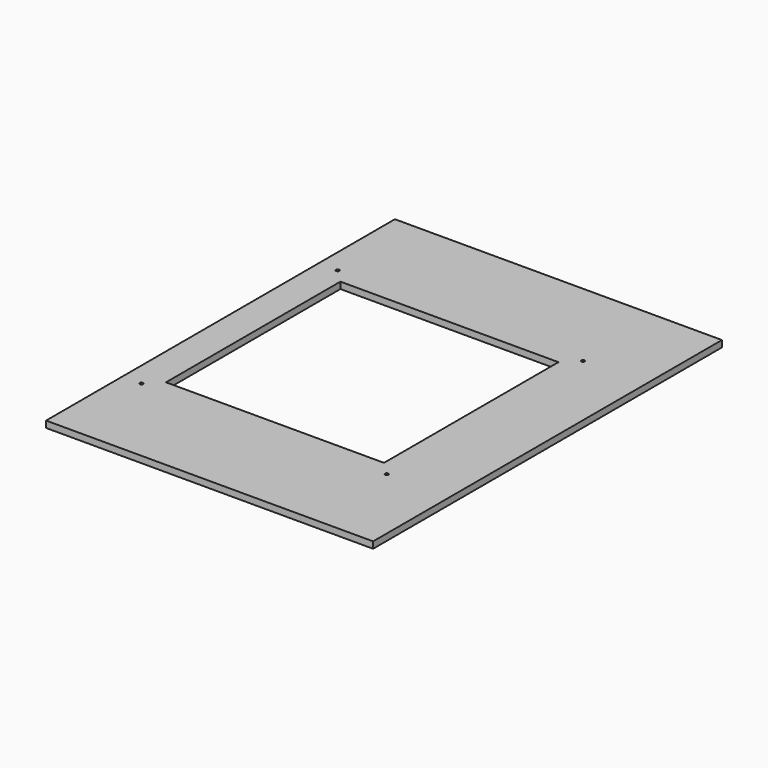
from build123d import *

# Parameters (mm, degrees)
F0_W     = 600
F0_H     = 800
F1_DEPTH = 12
F2_W     = 400
F2_H     = 400
F3_DEPTH = 15
F5_R     = 3.1
F6_DEPTH = 50


with BuildPart() as f1:
    # F0 (on Top) → F1 (new body)
    with BuildSketch(Plane.XY):
        with Locations((73.317543, -274.941781)):
            Rectangle(F0_W, F0_H)
    extrude(amount=F1_DEPTH)

    # F2 (on face) → F3 (cut)
    with BuildSketch(Plane.XY.offset(12)):
        with Locations((33.317543, -274.941781)):
            Rectangle(F2_W, F2_H)
    extrude(amount=-F3_DEPTH, mode=Mode.SUBTRACT)

    # F5 (on face) → F6 (cut)
    with BuildSketch(Plane.XY.offset(12)):
        with Locations((-191.682457, -49.941781)):
            Circle(F5_R)
        with Locations((-191.682457, -499.941781)):
            Circle(F5_R)
        with Locations((258.317543, -49.941781)):
            Circle(F5_R)
        with Locations((258.317543, -499.941781)):
            Circle(F5_R)
    extrude(amount=-F6_DEPTH, mode=Mode.SUBTRACT)


solid = f1.part
